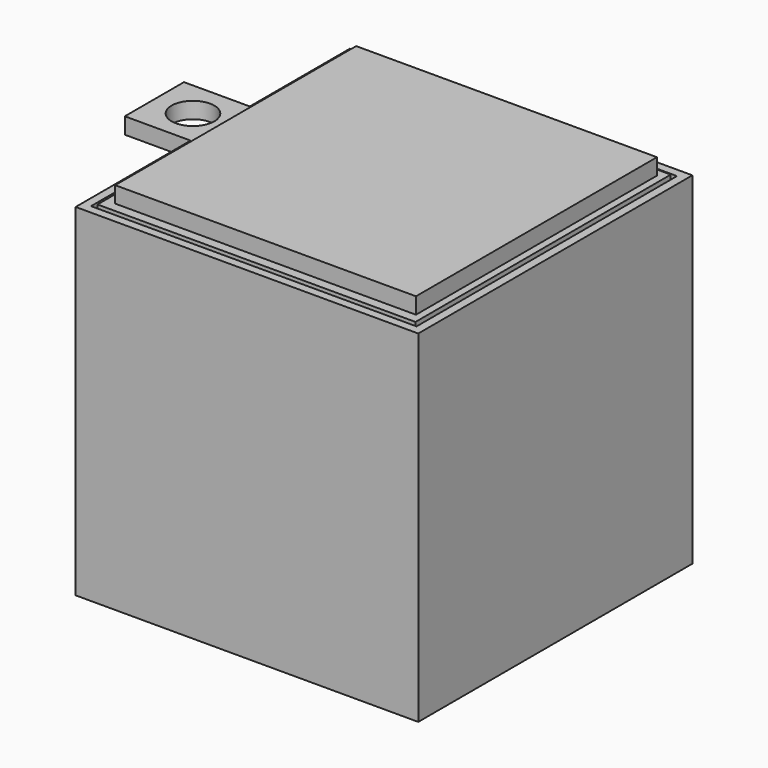
from build123d import *

# Parameters (mm, degrees)
F0_W     = 101.801986
F0_H     = 101.801992
F1_DEPTH = 101.6
F2_T     = -2.54
F3_W     = 94.484977
F3_H     = 94.803106
F4_DEPTH = 4.318
F5_W     = 89.372357
F5_H     = 89.501217
F6_DEPTH = 4.826
F7_W     = 20.954728
F7_H     = 21.977729
F8_DEPTH = 4.826
F9_D     = 12.7


with BuildPart() as f1:
    # F0 (on Top) → F1 (new body)
    with BuildSketch(Plane.XY):
        with Locations((21.155725, -17.179087)):
            Rectangle(F0_W, F0_H)
    extrude(amount=F1_DEPTH)

    # F2
    f2_openings = [f1.faces().sort_by_distance(p)[0] for p in [
        (21.155725, -17.179087, 101.6),
    ]]
    offset(amount=F2_T, openings=f2_openings)

    # F7 (on face) → F8 (join)
    with BuildSketch(Plane.XY.offset(101.6)):
        with Locations((-38.820364, -14.393381)):
            Rectangle(F7_W, F7_H)
    extrude(amount=-F8_DEPTH)

    # F9 (through all)
    with Locations(Plane.XY.offset(101.6)):
        with Locations((-37.835293, -14.393382)):
            Hole(F9_D / 2)


with BuildPart() as f4:
    # F3 (on face) → F4 (new body)
    with BuildSketch(Plane.XY.offset(101.6)):
        with Locations((20.678531, -16.542824)):
            Rectangle(F3_W, F3_H)
    extrude(amount=-F4_DEPTH)

    # F5 (on face) → F6 (join)
    with BuildSketch(Plane.XY.offset(101.6)):
        with Locations((21.062922, -16.297649)):
            Rectangle(F5_W, F5_H)
    extrude(amount=F6_DEPTH)


solid = Compound([f1.part, f4.part])
